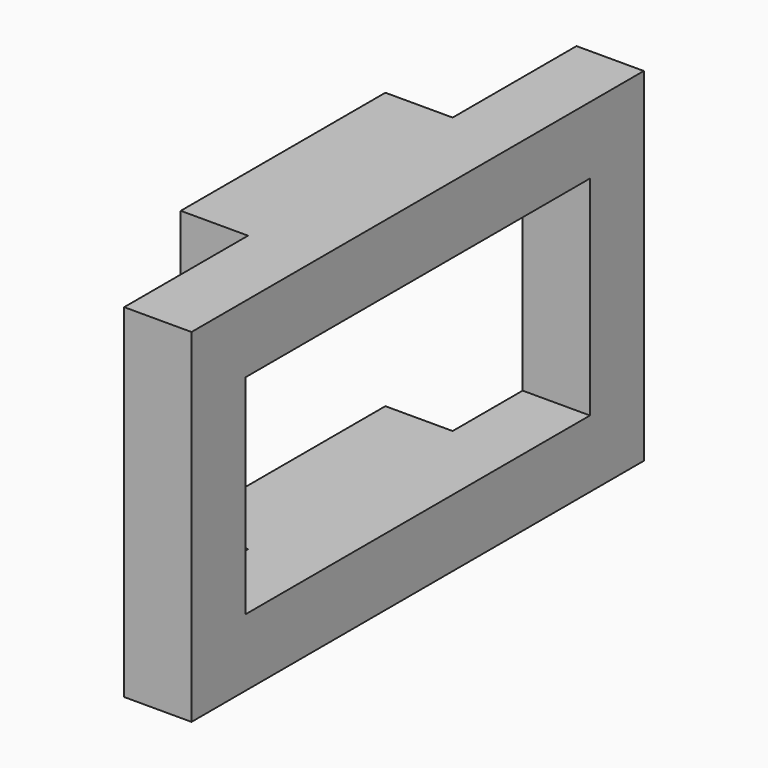
from build123d import *

# Parameters (mm, degrees)
SKETCH063_W      = 2
SKETCH063_H      = 2
EXTRUDE068_DEPTH = 3.8
SKETCH062_W      = 2
SKETCH062_H      = 6.2
EXTRUDE067_DEPTH = 6.4
SKETCH061_W      = 2
SKETCH061_H      = 10.2
EXTRUDE066_DEPTH = 8.4


with BuildPart() as obj1:
    # Sketch063 → Extrude068 (new body, symmetric)
    with BuildSketch(Plane.XZ):
        with Locations((-2, 4.1)):
            Rectangle(SKETCH063_W, SKETCH063_H)
        with Locations((-2, -4.1)):
            Rectangle(SKETCH063_W, SKETCH063_H)
    extrude(amount=EXTRUDE068_DEPTH, both=True)


with BuildPart() as obj2:
    # Sketch062 → Extrude067 (new body, symmetric)
    with BuildSketch(Plane.XZ):
        Rectangle(SKETCH062_W, SKETCH062_H)
    extrude(amount=EXTRUDE067_DEPTH, both=True)


with BuildPart() as obj3:
    # Sketch061 → Extrude066 (new body, symmetric)
    with BuildSketch(Plane.XZ):
        Rectangle(SKETCH061_W, SKETCH061_H)
    extrude(amount=EXTRUDE066_DEPTH, both=True)

    # Cut036: cut obj2
    add(obj2.part, mode=Mode.SUBTRACT)

    # Fusion002: union obj1
    add(obj1.part)


solid = obj3.part
